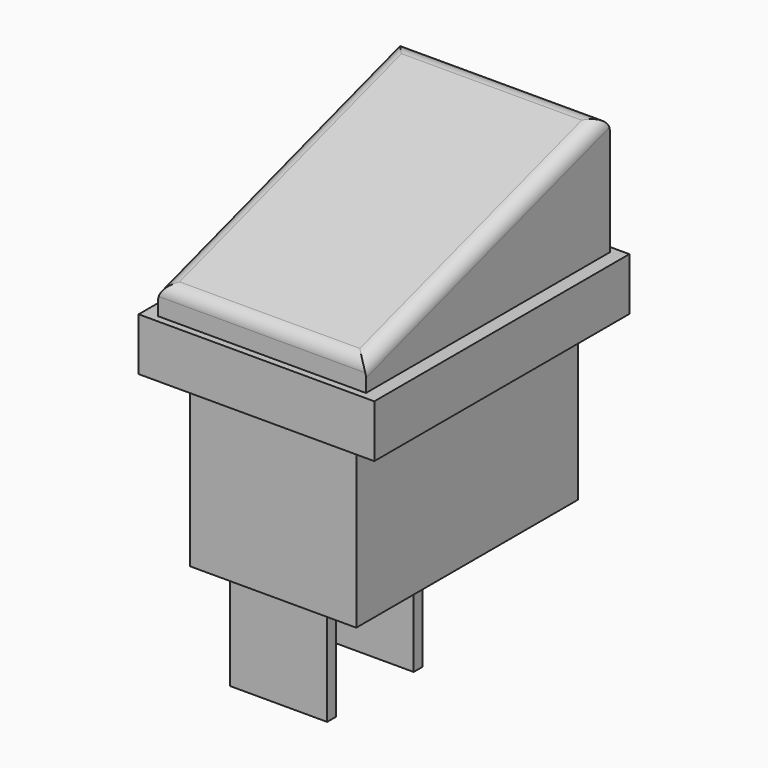
from build123d import *

# Parameters (mm, degrees)
F0_W     = 12
F0_H     = 20
F1_DEPTH = 12
F2_W     = 17
F2_H     = 23
F2_W_2   = 12
F2_H_2   = 20
F3_DEPTH = 3.8
F4_W     = 7
F4_H     = 0.8
F5_DEPTH = 7
F7_DEPTH = 7.5
F8_R     = 1


with BuildPart() as f1:
    # F0 (on Top) → F1 (new body)
    with BuildSketch(Plane.XY):
        Rectangle(F0_W, F0_H)
    extrude(amount=F1_DEPTH)

    # F2 (on face) → F3 (join)
    with BuildSketch(Plane.XY.offset(12)):
        Rectangle(F2_W, F2_H)
        Rectangle(F2_W_2, F2_H_2, mode=Mode.SUBTRACT)
        Rectangle(F2_W_2, F2_H_2)
    extrude(amount=F3_DEPTH)

    # F4 (on face) → F5 (join)
    with BuildSketch(Plane(origin=(0, 0, 0), x_dir=(1, 0, 0), z_dir=(0, 0, -1))):
        with Locations((0, 9.1)):
            Rectangle(F4_W, F4_H)
        with Locations((0, 1.3)):
            Rectangle(F4_W, F4_H)
    extrude(amount=F5_DEPTH)

    # F6 (on Right) → F7 (join, symmetric)
    with BuildSketch(Plane.YZ):
        Polygon((-11, 15.8), (11, 15.8), (11, 24.8), (-11, 17.8), align=None)
    extrude(amount=F7_DEPTH, both=True)

    # F8
    f8_edges = [f1.edges().sort_by_distance(p)[0] for p in [
        (0, 11, 24.8),
        (-7.5, 0, 21.3),
        (0, -11, 17.8),
        (7.5, 0, 21.3),
    ]]
    fillet(f8_edges, radius=F8_R)


solid = f1.part
